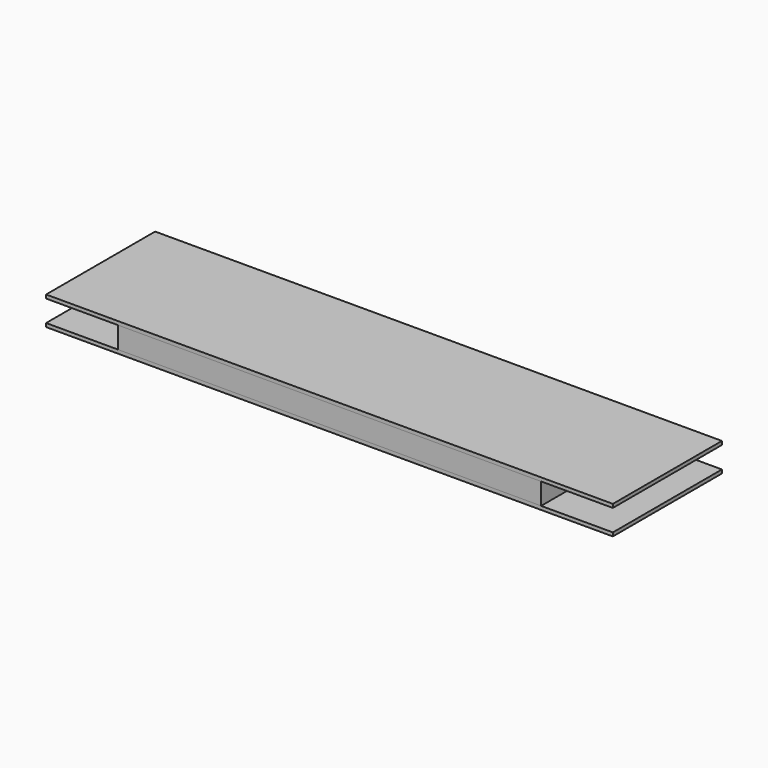
from build123d import *

# Parameters (mm, degrees)
F1_DEPTH = 19
F0_W     = 59
F0_H     = 3
F2_DEPTH = 19


with BuildPart() as f1:
    # F0 (on Front) → F1 (new body)
    with BuildSketch(Plane.XZ):
        Polygon((-29.5, 1.5), (29.5, 1.5), (39.5, 1.5), (39.5, 2), (-39.5, 2), (-39.5, 1.5), align=None)
        Polygon((39.5, -1.5), (29.5, -1.5), (-29.5, -1.5), (-39.5, -1.5), (-39.5, -2), (39.5, -2), align=None)
    extrude(amount=F1_DEPTH)


with BuildPart() as f2:
    # F0 (on Front) → F2 (new body)
    with BuildSketch(Plane.XZ):
        Rectangle(F0_W, F0_H)
    extrude(amount=F2_DEPTH)


solid = Compound([f1.part, f2.part])
